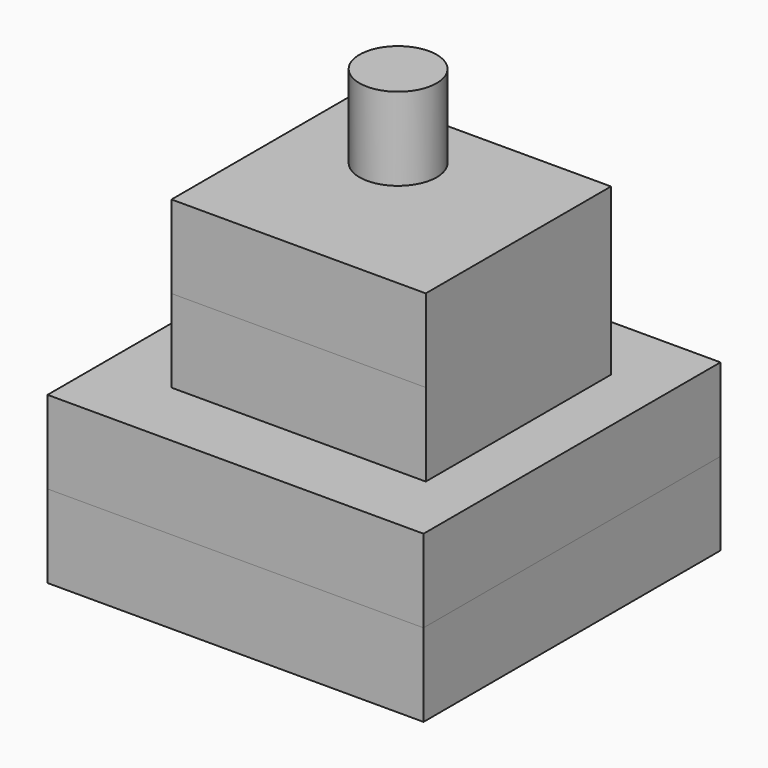
from build123d import *

# Parameters (mm, degrees)
F0_W      = 115.277931
F0_H      = 113.799483
F1_DEPTH  = 25.4
F1_FACE_W = 115.277932
F1_FACE_H = 113.799482
F2_DEPTH  = 25.4
F3_W      = 77.95823
F3_H      = 70.992715
F4_DEPTH  = 25.4
F4_FACE_W = 77.95823
F4_FACE_H = 70.992716
F5_DEPTH  = 25.4
F6_R      = 11.845384
F7_DEPTH  = 25.4


with BuildPart() as f1:
    # F0 (on Top) → F1 (new body)
    with BuildSketch(Plane.XY):
        with Locations((-6.814219, 2.793729)):
            Rectangle(F0_W, F0_H)
    extrude(amount=-F1_DEPTH)

    # F1_face (on face) → F2 (join)
    with BuildSketch(Plane(origin=(-6.814219, 2.793729, -25.4), x_dir=(1, 0, 0), z_dir=(0, 0, -1))):
        Rectangle(F1_FACE_W, F1_FACE_H)
    extrude(amount=F2_DEPTH)

    # F3 (on face) → F4 (join)
    with BuildSketch(Plane.XY):
        with Locations((-4.62606, 2.834301)):
            Rectangle(F3_W, F3_H)
    extrude(amount=F4_DEPTH)

    # F4_face (on face) → F5 (join)
    with BuildSketch(Plane(origin=(-4.62606, 2.834301, 25.4), x_dir=(1, 0, 0), z_dir=(0, 0, 1))):
        Rectangle(F4_FACE_W, F4_FACE_H)
    extrude(amount=F5_DEPTH)

    # F6 (on face) → F7 (join)
    with BuildSketch(Plane.XY.offset(50.8)):
        with Locations((-13.039038, 15.976707)):
            Circle(F6_R)
    extrude(amount=F7_DEPTH)


solid = f1.part
